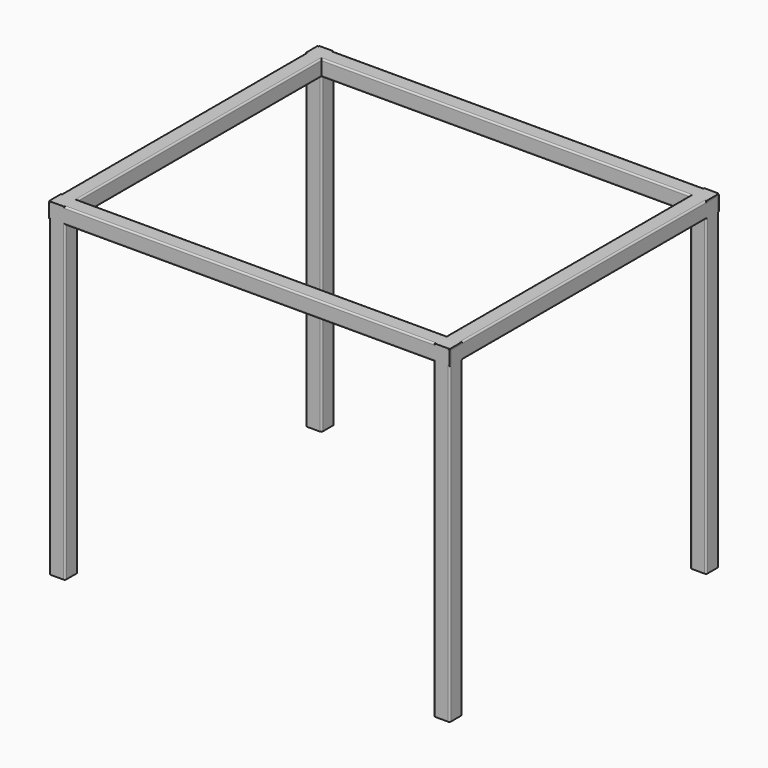
from build123d import *

# Parameters (mm, degrees)
F1_W     = 42
F1_H     = 42
F3_W     = 42
F3_H     = 42
F4_DEPTH = 1200


with BuildPart() as f2:
    # F2: sweep along a path in F0
    with BuildLine(Plane.YZ) as f2_path:
        Line((0, 0), (0, 1000))
        Line((0, 1000), (1000, 1000))
        Line((1000, 1000), (1000, 0))
    # F1 (on Top) → F2 (sweep)
    with BuildSketch(Plane.XY):
        with BuildLine():
            Line((-20, -25), (20, -25))
            ThreePointArc((20, -25), (23.5355339059, -23.5355339059), (25, -20))
            Line((25, -20), (25, 20))
            ThreePointArc((25, 20), (23.5355339059, 23.5355339059), (20, 25))
            Line((20, 25), (-20, 25))
            ThreePointArc((-20, 25), (-23.5355339059, 23.5355339059), (-25, 20))
            Line((-25, 20), (-25, -20))
            ThreePointArc((-25, -20), (-23.5355339059, -23.5355339059), (-20, -25))
        make_face()
        Rectangle(F1_W, F1_H, mode=Mode.SUBTRACT)
    sweep(path=f2_path.line, transition=Transition.RIGHT)

    # F3 (on face) → F4 (join)
    with BuildSketch(Plane(origin=(-25, 0, 0), x_dir=(0, -1, 0), z_dir=(-1, 0, 0))):
        with BuildLine():
            Line((-1020, 975), (-980, 975))
            ThreePointArc((-980, 975), (-976.4644660941, 976.4644660941), (-975, 980))
            Line((-975, 980), (-975, 1020))
            ThreePointArc((-975, 1020), (-976.4644660941, 1023.5355339059), (-980, 1025))
            Line((-980, 1025), (-1020, 1025))
            ThreePointArc((-1020, 1025), (-1023.5355339059, 1023.5355339059), (-1025, 1020))
            Line((-1025, 1020), (-1025, 980))
            ThreePointArc((-1025, 980), (-1023.5355339059, 976.4644660941), (-1020, 975))
        make_face()
        with Locations((-1000, 1000)):
            Rectangle(F3_W, F3_H, mode=Mode.SUBTRACT)
        with BuildLine():
            ThreePointArc((-25, 980), (-23.5355339059, 976.4644660941), (-20, 975))
            Line((-20, 975), (20, 975))
            ThreePointArc((20, 975), (23.5355339059, 976.4644660941), (25, 980))
            Line((25, 980), (25, 1020))
            ThreePointArc((25, 1020), (23.5355339059, 1023.5355339059), (20, 1025))
            Line((20, 1025), (-20, 1025))
            ThreePointArc((-20, 1025), (-23.5355339059, 1023.5355339059), (-25, 1020))
            Line((-25, 1020), (-25, 980))
        make_face()
        with Locations((0, 1000)):
            Rectangle(F3_W, F3_H, mode=Mode.SUBTRACT)
    extrude(amount=F4_DEPTH)

    # F6: F2 across plane


with BuildPart() as f2_1:
    add(f2.part)
    add(f2.part.mirror(Plane.YZ.offset(-600)))


solid = f2_1.part
